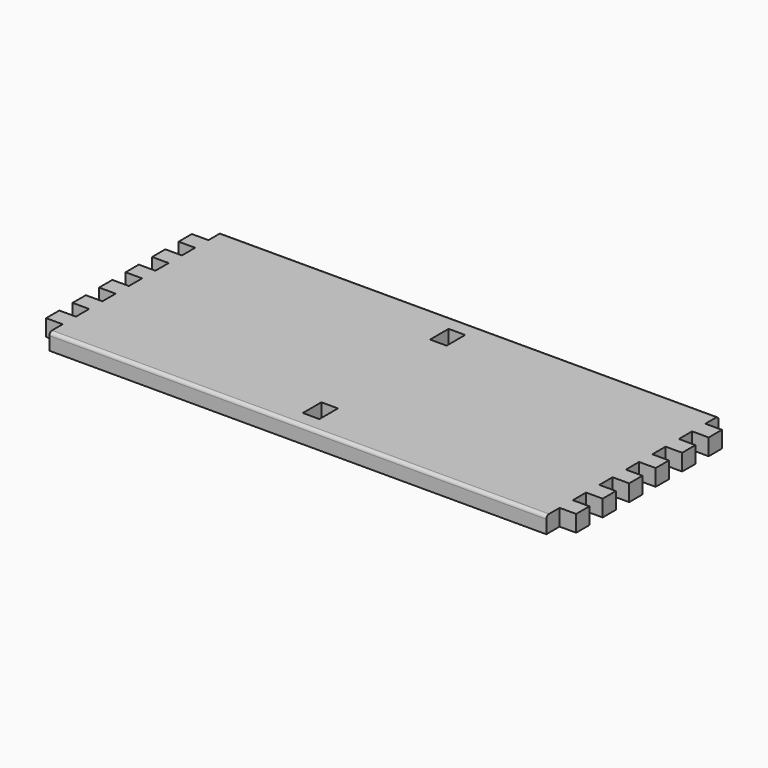
from build123d import *

# Parameters (mm, degrees)
F0_W     = 25
F0_H     = 25
F1_DEPTH = 25
F3_R     = 5
F4_R     = 5


with BuildPart() as f1:
    # F0 (on Top) → F1 (new body)
    with BuildSketch(Plane.XY):
        with Locations((89.836757, -287.5)):
            Rectangle(F0_W, F0_H)
        with Locations((89.836757, -237.5)):
            Rectangle(F0_W, F0_H)
        with Locations((89.836757, -187.5)):
            Rectangle(F0_W, F0_H)
        with Locations((89.836757, -137.5)):
            Rectangle(F0_W, F0_H)
        with Locations((89.836757, -87.5)):
            Rectangle(F0_W, F0_H)
        with Locations((89.836757, -37.5)):
            Rectangle(F0_W, F0_H)
        Polygon((77.336757, 0), (-297.663243, 0), (-297.663243, -25), (-285.163243, -25), (-285.163243, -60), (-297.663243, -60), (-297.663243, -265), (-285.163243, -265), (-285.163243, -300), (-297.663243, -300), (-297.663243, -325), (77.336757, -325), (77.336757, -300), (77.336757, -275), (77.336757, -250), (77.336757, -225), (77.336757, -200), (77.336757, -175), (77.336757, -150), (77.336757, -125), (77.336757, -100), (77.336757, -75), (77.336757, -50), (77.336757, -25), align=None)
    extrude(amount=F1_DEPTH)

    # F2: F1 across face


with BuildPart() as f1_1:
    add(f1.part)
    add(f1.part.mirror(Plane(origin=(-297.663243, -162.5, 12.5), x_dir=(0, -1, 0), z_dir=(-1, 0, 0))))

    # F3
    f3_edges = [f1_1.edges().sort_by_distance(p)[0] for p in [
        (-297.663243, 0, 25),
    ]]
    fillet(f3_edges, radius=F3_R)

    # F4
    f4_edges = [f1_1.edges().sort_by_distance(p)[0] for p in [
        (-297.663243, -325, 25),
    ]]
    fillet(f4_edges, radius=F4_R)


solid = f1_1.part
